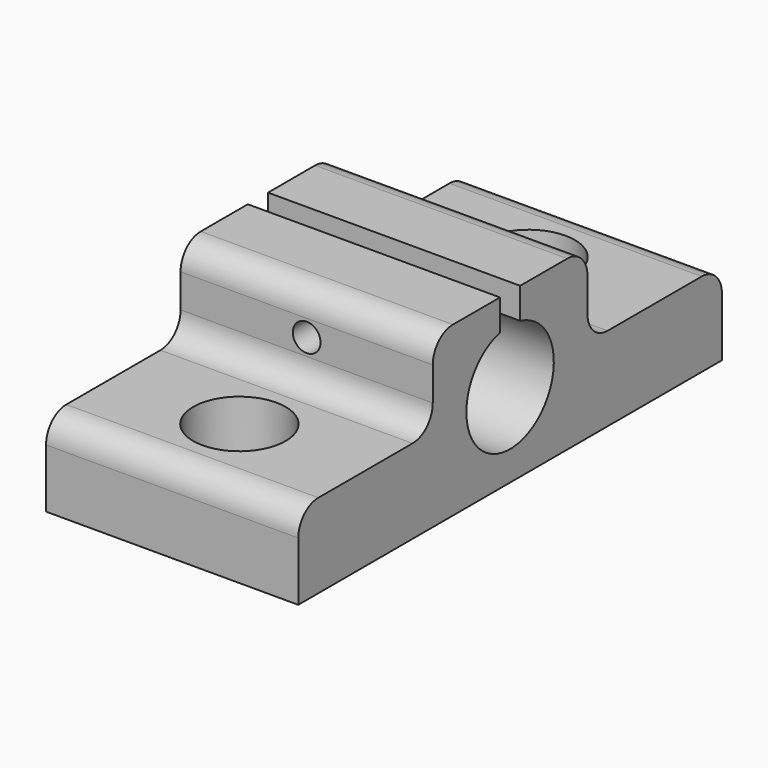
from build123d import *

# Parameters (mm, degrees)
CYLINDER008_R             = 1.65
CYLINDER008_DEPTH         = 10
CYLINDER007_R             = 7.25
CYLINDER007_DEPTH         = 1
CYLINDER006_R             = 6.5
CYLINDER006_DEPTH         = 32
FUSION005_PLACEMENT_ANGLE = 90
BOX003_W                  = 30
BOX003_H                  = 3
BOX003_DEPTH              = 15
CYLINDER003_R             = 3.25
CYLINDER003_DEPTH         = 10
CYLINDER002_R             = 5.5
CYLINDER002_DEPTH         = 6
CYLINDER005_R             = 3.25
CYLINDER005_DEPTH         = 10
CYLINDER004_R             = 5.5
CYLINDER004_DEPTH         = 6
BOX002_W                  = 30
BOX002_H                  = 20
BOX002_DEPTH              = 20
BOX001_W                  = 30
BOX001_H                  = 20
BOX001_DEPTH              = 20
BOX_W                     = 30
BOX_H                     = 63
BOX_DEPTH                 = 20
FILLET_R                  = 3


with BuildPart() as m4wormscrew:
    # Cylinder008 → Cylinder008 (new body)
    with BuildSketch(Plane(origin=(0, -3, 15), x_dir=(1, 0, 0), z_dir=(0, -1, 0))):
        Circle(CYLINDER008_R)
    extrude(amount=CYLINDER008_DEPTH)


with BuildPart() as cylinder007:
    # Cylinder007 → Cylinder007 (new body)
    with BuildSketch(Plane.XY):
        Circle(CYLINDER007_R)
    extrude(amount=CYLINDER007_DEPTH)


with BuildPart() as lasermoduletemplate001:
    # Cylinder006 → Cylinder006 (new body)
    with BuildSketch(Plane.XY):
        Circle(CYLINDER006_R)
    extrude(amount=CYLINDER006_DEPTH)

    # Fusion005: union Cylinder007
    add(cylinder007.part)


with BuildPart() as lasermoduletemplate001_1:
    # Fusion005 placement: moved
    add(lasermoduletemplate001.part.moved(Location((-15, 0, 10))).rotate(Axis((-15, 0, 10), (0, 1, 0)), FUSION005_PLACEMENT_ANGLE))


with BuildPart() as cube003:
    # Box003 → Box003 (new body)
    with BuildSketch(Plane(origin=(-15, -1.5, 15), x_dir=(1, 0, 0), z_dir=(0, 0, 1))):
        with Locations((15, 1.5)):
            Rectangle(BOX003_W, BOX003_H)
    extrude(amount=BOX003_DEPTH)


with BuildPart() as cylinder003:
    # Cylinder003 → Cylinder003 (new body)
    with BuildSketch(Plane.XY):
        Circle(CYLINDER003_R)
    extrude(amount=CYLINDER003_DEPTH)


with BuildPart() as screwthrough001:
    # Cylinder002 → Cylinder002 (new body)
    with BuildSketch(Plane.XY.offset(4)):
        Circle(CYLINDER002_R)
    extrude(amount=CYLINDER002_DEPTH)

    # Fusion001: union Cylinder003
    add(cylinder003.part)


with BuildPart() as screwthrough001_1:
    # Fusion001 placement: moved
    add(screwthrough001.part.moved(Location((0, -21.5, 0))))


with BuildPart() as cylinder005:
    # Cylinder005 → Cylinder005 (new body)
    with BuildSketch(Plane.XY):
        Circle(CYLINDER005_R)
    extrude(amount=CYLINDER005_DEPTH)


with BuildPart() as fusion004:
    # Cylinder004 → Cylinder004 (new body)
    with BuildSketch(Plane.XY.offset(4)):
        Circle(CYLINDER004_R)
    extrude(amount=CYLINDER004_DEPTH)

    # Fusion002: union Cylinder005
    add(cylinder005.part)


with BuildPart() as fusion004_1:
    # Fusion002 placement: moved
    add(fusion004.part.moved(Location((0, 21.5, 0))))

    # Fusion004: union ScrewThrough001
    add(screwthrough001_1.part)


with BuildPart() as cube002:
    # Box002 → Box002 (new body)
    with BuildSketch(Plane(origin=(-15, -31.5, 10), x_dir=(1, 0, 0), z_dir=(0, 0, 1))):
        with Locations((15, 10)):
            Rectangle(BOX002_W, BOX002_H)
    extrude(amount=BOX002_DEPTH)


with BuildPart() as fusion003:
    # Box001 → Box001 (new body)
    with BuildSketch(Plane(origin=(-15, 11.5, 10), x_dir=(1, 0, 0), z_dir=(0, 0, 1))):
        with Locations((15, 10)):
            Rectangle(BOX001_W, BOX001_H)
    extrude(amount=BOX001_DEPTH)

    # Fusion003: union Cube002
    add(cube002.part)


with BuildPart() as cut004:
    # Box → Box (new body)
    with BuildSketch(Plane(origin=(-15, -31.5, 0), x_dir=(1, 0, 0), z_dir=(0, 0, 1))):
        with Locations((15, 31.5)):
            Rectangle(BOX_W, BOX_H)
    extrude(amount=BOX_DEPTH)

    # Cut: cut Fusion003
    add(fusion003.part, mode=Mode.SUBTRACT)

    # Cut001: cut Fusion004
    add(fusion004_1.part, mode=Mode.SUBTRACT)

    # Cut002: cut Cube003
    add(cube003.part, mode=Mode.SUBTRACT)

    # Cut003: cut LaserModuleTemplate001
    add(lasermoduletemplate001_1.part, mode=Mode.SUBTRACT)

    # Fillet
    fillet_edges = [cut004.edges().sort_by_distance(p)[0] for p in [
        (0, -31.5, 10),
        (0, -11.5, 10),
        (0, -11.5, 20),
        (0, 11.5, 20),
        (0, 11.5, 10),
        (0, 31.5, 10),
    ]]
    fillet(fillet_edges, radius=FILLET_R)

    # Cut004: cut M4WormScrew
    add(m4wormscrew.part, mode=Mode.SUBTRACT)


solid = cut004.part
